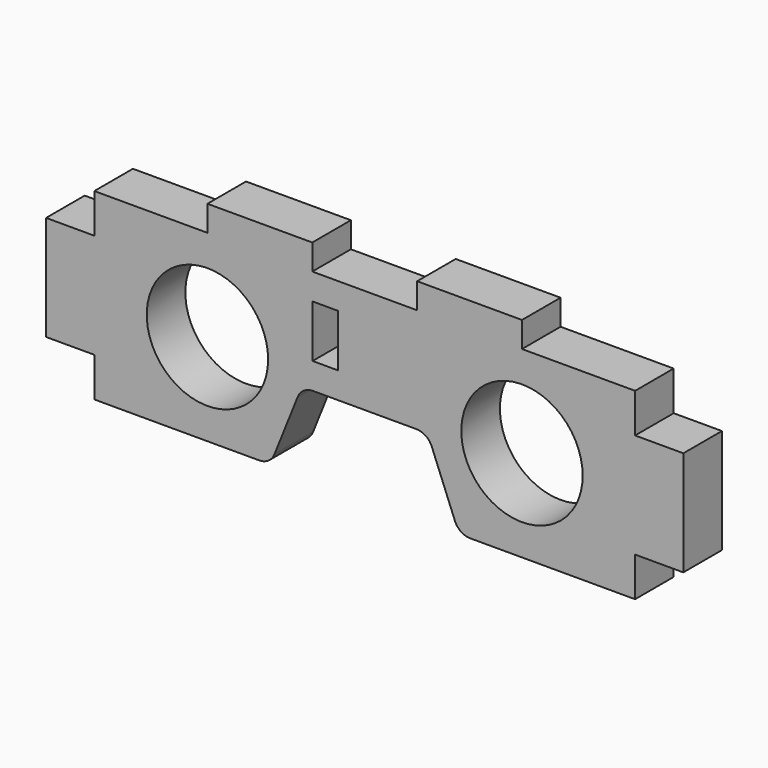
from build123d import *

# Parameters (mm, degrees)
F0_R     = 7.35
F1_DEPTH = 5.842
F2_R     = 2
F3_W     = 3.0988
F3_H     = 6.35
F4_DEPTH = 25.4
F5_W     = 12.7
F5_H     = 3.0988
F6_DEPTH = 5.842
F8_DEPTH = 5.842


with BuildPart() as f1:
    # F0 (on Front) → F1 (new body)
    with BuildSketch(Plane.XZ):
        Polygon((31.75, 11.1125), (-31.75, 11.1125), (-31.75, -11.1125), (-11.43, -11.1125), (-7.62, -1.5875), (0, -1.5875), (7.62, -1.5875), (11.43, -11.1125), (31.75, -11.1125), align=None)
        with Locations((-19.05, 0)):
            Circle(F0_R, mode=Mode.SUBTRACT)
        with Locations((19.05, 0)):
            Circle(F0_R, mode=Mode.SUBTRACT)
    extrude(amount=F1_DEPTH)

    # F2
    f2_edges = [f1.edges().sort_by_distance(p)[0] for p in [
        (-11.43, -2.921, -11.1125),
        (-7.62, -2.921, -1.5875),
        (7.62, -2.921, -1.5875),
        (11.43, -2.921, -11.1125),
    ]]
    fillet(f2_edges, radius=F2_R)

    # F3 (on face) → F4 (cut)
    with BuildSketch(Plane(origin=(0, 0, 0), x_dir=(-1, 0, 0), z_dir=(0, 1, 0))):
        with Locations((4.7625, 4.7625)):
            Rectangle(F3_W, F3_H)
    extrude(amount=-F4_DEPTH, mode=Mode.SUBTRACT)

    # F5 (on face) → F6 (join, through all)
    with BuildSketch(Plane.XZ.offset(5.842)):
        with Locations((-12.7, 12.6619)):
            Rectangle(F5_W, F5_H)
        with Locations((12.7, 12.6619)):
            Rectangle(F5_W, F5_H)
    extrude(amount=-F6_DEPTH)

    # F7 (on face) → F8 (join, through all)
    with BuildSketch(Plane.XZ.offset(5.842)):
        Polygon((38.592, 6.35), (32.75, 6.35), (32.75, 11.1125), (31.75, 11.1125), (31.75, 6.35), (31.75, -6.35), (31.75, -11.1125), (32.75, -11.1125), (32.75, -6.35), (38.592, -6.35), align=None)
        Polygon((-31.75, 6.35), (-31.75, 11.1125), (-32.75, 11.1125), (-32.75, 6.35), (-38.592, 6.35), (-38.592, -6.35), (-32.75, -6.35), (-32.75, -11.1125), (-31.75, -11.1125), (-31.75, -6.35), align=None)
    extrude(amount=-F8_DEPTH)


solid = f1.part
